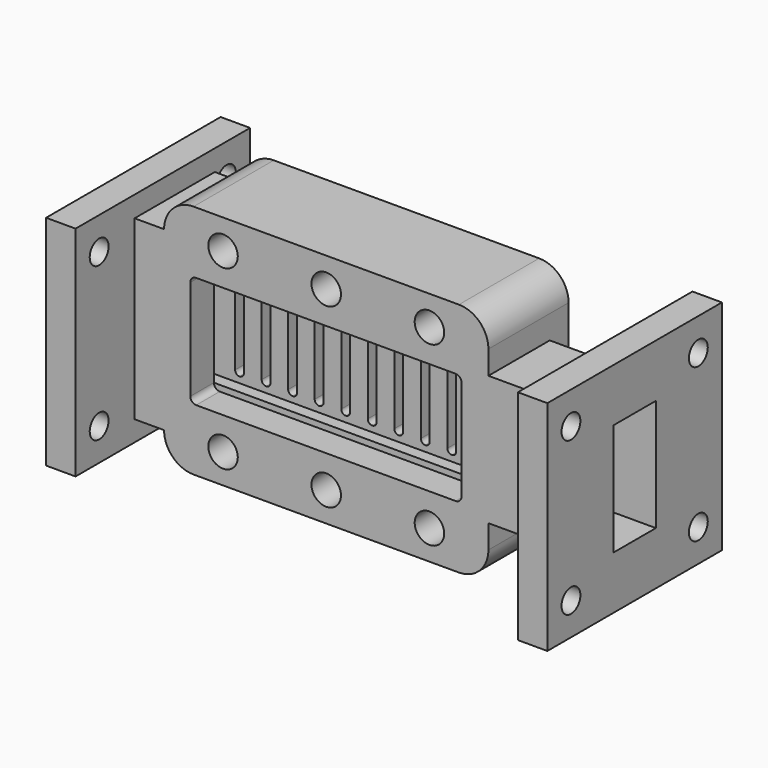
from build123d import *

# Parameters (mm, degrees)
F0_R      = 2.5
F1_DEPTH  = 17
F3_DEPTH  = 5
F4_W      = 46
F4_H      = 17
F5_DEPTH  = 2
F7_DEPTH  = 5
F9_W      = 13
F9_H      = 22
F10_DEPTH = 20
F11_W     = 37
F11_H     = 37
F11_R     = 2
F11_W_2   = 13
F11_H_2   = 22
F12_DEPTH = 5
F13_W     = 9
F13_H     = 19
F14_DEPTH = 10
F15_W     = 6
F15_H     = 18
F16_DEPTH = 10
F8_W      = 17
F8_H      = 30
F8_W_2    = 2
F8_H_2    = 17.5
F17_DEPTH = 5
F18_W     = 37
F18_H     = 37
F18_R     = 2
F19_DEPTH = 5
F20_DEPTH = 75.001


with BuildPart() as f1:
    # F0 (on Front) → F1 (new body)
    with BuildSketch(Plane.XZ):
        with BuildLine():
            Line((-22.4465147161, -20), (22.5534852839, -20))
            ThreePointArc((22.5534852839, -20), (26.0890191899, -18.5355339059), (27.5534852839, -15))
            Line((27.5534852839, -15), (27.5534852839, 15))
            ThreePointArc((27.5534852839, 15), (26.0890191899, 18.5355339059), (22.5534852839, 20))
            Line((22.5534852839, 20), (-22.4465147161, 20))
            ThreePointArc((-22.4465147161, 20), (-25.982048622, 18.5355339059), (-27.4465147161, 15))
            Line((-27.4465147161, 15), (-27.4465147161, -15))
            ThreePointArc((-27.4465147161, -15), (-25.982048622, -18.5355339059), (-22.4465147161, -20))
        make_face()
        with Locations((-17.4465147161, -15)):
            Circle(F0_R, mode=Mode.SUBTRACT)
        with Locations((0.0534852839, -15)):
            Circle(F0_R, mode=Mode.SUBTRACT)
        with Locations((17.5534852839, -15)):
            Circle(F0_R, mode=Mode.SUBTRACT)
        with Locations((-17.4465147161, 15)):
            Circle(F0_R, mode=Mode.SUBTRACT)
        with Locations((0.0534852839, 15)):
            Circle(F0_R, mode=Mode.SUBTRACT)
        with Locations((17.5534852839, 15)):
            Circle(F0_R, mode=Mode.SUBTRACT)
    extrude(amount=F1_DEPTH)

    # F2 (on face) → F3 (cut)
    with BuildSketch(Plane.XZ.offset(17)):
        with BuildLine():
            Line((22, 9.5), (-22, 9.5))
            ThreePointArc((-22, 9.5), (-22.7071067812, 9.2071067812), (-23, 8.5))
            Line((-23, 8.5), (-23, -8.5))
            ThreePointArc((-23, -8.5), (-22.7071067812, -9.2071067812), (-22, -9.5))
            Line((-22, -9.5), (22, -9.5))
            ThreePointArc((22, -9.5), (22.7071067812, -9.2071067812), (23, -8.5))
            Line((23, -8.5), (23, 8.5))
            ThreePointArc((23, 8.5), (22.7071067812, 9.2071067812), (22, 9.5))
        make_face()
    extrude(amount=-F3_DEPTH, mode=Mode.SUBTRACT)

    # F4 (on face) → F5 (cut)
    with BuildSketch(Plane.XZ.offset(12)):
        Rectangle(F4_W, F4_H)
    extrude(amount=-F5_DEPTH, mode=Mode.SUBTRACT)

    # F6 (on face) → F7 (cut)
    with BuildSketch(Plane.XZ.offset(10)):
        with BuildLine():
            ThreePointArc((-20.25, 7.5), (-20.7803300859, 7.2803300859), (-21, 6.75))
            Line((-21, 6.75), (-21, -6.75))
            ThreePointArc((-21, -6.75), (-20.7803300859, -7.2803300859), (-20.25, -7.5))
            ThreePointArc((-20.25, -7.5), (-19.7196699141, -7.2803300859), (-19.5, -6.75))
            Line((-19.5, -6.75), (-19.5, 6.75))
            ThreePointArc((-19.5, 6.75), (-19.7196699141, 7.2803300859), (-20.25, 7.5))
        make_face()
        with BuildLine():
            ThreePointArc((-15.75, 7.5), (-16.2803300859, 7.2803300859), (-16.5, 6.75))
            Line((-16.5, 6.75), (-16.5, -6.75))
            ThreePointArc((-16.5, -6.75), (-16.2803300859, -7.2803300859), (-15.75, -7.5))
            ThreePointArc((-15.75, -7.5), (-15.2196699141, -7.2803300859), (-15, -6.75))
            Line((-15, -6.75), (-15, 6.75))
            ThreePointArc((-15, 6.75), (-15.2196699141, 7.2803300859), (-15.75, 7.5))
        make_face()
        with BuildLine():
            ThreePointArc((-11.25, 7.5), (-11.7803300859, 7.2803300859), (-12, 6.75))
            Line((-12, 6.75), (-12, -6.75))
            ThreePointArc((-12, -6.75), (-11.7803300859, -7.2803300859), (-11.25, -7.5))
            ThreePointArc((-11.25, -7.5), (-10.7196699141, -7.2803300859), (-10.5, -6.75))
            Line((-10.5, -6.75), (-10.5, 6.75))
            ThreePointArc((-10.5, 6.75), (-10.7196699141, 7.2803300859), (-11.25, 7.5))
        make_face()
        with BuildLine():
            ThreePointArc((-6.75, 7.5), (-7.2803300859, 7.2803300859), (-7.5, 6.75))
            Line((-7.5, 6.75), (-7.5, -6.75))
            ThreePointArc((-7.5, -6.75), (-7.2803300859, -7.2803300859), (-6.75, -7.5))
            ThreePointArc((-6.75, -7.5), (-6.2196699141, -7.2803300859), (-6, -6.75))
            Line((-6, -6.75), (-6, 6.75))
            ThreePointArc((-6, 6.75), (-6.2196699141, 7.2803300859), (-6.75, 7.5))
        make_face()
        with BuildLine():
            ThreePointArc((-2.25, 7.5), (-2.7803300859, 7.2803300859), (-3, 6.75))
            Line((-3, 6.75), (-3, -6.75))
            ThreePointArc((-3, -6.75), (-2.7803300859, -7.2803300859), (-2.25, -7.5))
            ThreePointArc((-2.25, -7.5), (-1.7196699141, -7.2803300859), (-1.5, -6.75))
            Line((-1.5, -6.75), (-1.5, 6.75))
            ThreePointArc((-1.5, 6.75), (-1.7196699141, 7.2803300859), (-2.25, 7.5))
        make_face()
        with BuildLine():
            ThreePointArc((2.25, 7.5), (1.7196699141, 7.2803300859), (1.5, 6.75))
            Line((1.5, 6.75), (1.5, -6.75))
            ThreePointArc((1.5, -6.75), (1.7196699141, -7.2803300859), (2.25, -7.5))
            ThreePointArc((2.25, -7.5), (2.7803300859, -7.2803300859), (3, -6.75))
            Line((3, -6.75), (3, 6.75))
            ThreePointArc((3, 6.75), (2.7803300859, 7.2803300859), (2.25, 7.5))
        make_face()
        with BuildLine():
            ThreePointArc((6.75, 7.5), (6.2196699141, 7.2803300859), (6, 6.75))
            Line((6, 6.75), (6, -6.75))
            ThreePointArc((6, -6.75), (6.2196699141, -7.2803300859), (6.75, -7.5))
            ThreePointArc((6.75, -7.5), (7.2803300859, -7.2803300859), (7.5, -6.75))
            Line((7.5, -6.75), (7.5, 6.75))
            ThreePointArc((7.5, 6.75), (7.2803300859, 7.2803300859), (6.75, 7.5))
        make_face()
        with BuildLine():
            ThreePointArc((11.25, 7.5), (10.7196699141, 7.2803300859), (10.5, 6.75))
            Line((10.5, 6.75), (10.5, -6.75))
            ThreePointArc((10.5, -6.75), (10.7196699141, -7.2803300859), (11.25, -7.5))
            ThreePointArc((11.25, -7.5), (11.7803300859, -7.2803300859), (12, -6.75))
            Line((12, -6.75), (12, 6.75))
            ThreePointArc((12, 6.75), (11.7803300859, 7.2803300859), (11.25, 7.5))
        make_face()
        with BuildLine():
            ThreePointArc((15.75, 7.5), (15.2196699141, 7.2803300859), (15, 6.75))
            Line((15, 6.75), (15, -6.75))
            ThreePointArc((15, -6.75), (15.2196699141, -7.2803300859), (15.75, -7.5))
            ThreePointArc((15.75, -7.5), (16.2803300859, -7.2803300859), (16.5, -6.75))
            Line((16.5, -6.75), (16.5, 6.75))
            ThreePointArc((16.5, 6.75), (16.2803300859, 7.2803300859), (15.75, 7.5))
        make_face()
        with BuildLine():
            ThreePointArc((20.25, 7.5), (19.7196699141, 7.2803300859), (19.5, 6.75))
            Line((19.5, 6.75), (19.5, -6.75))
            ThreePointArc((19.5, -6.75), (19.7196699141, -7.2803300859), (20.25, -7.5))
            ThreePointArc((20.25, -7.5), (20.7803300859, -7.2803300859), (21, -6.75))
            Line((21, -6.75), (21, 6.75))
            ThreePointArc((21, 6.75), (20.7803300859, 7.2803300859), (20.25, 7.5))
        make_face()
    extrude(amount=-F7_DEPTH, mode=Mode.SUBTRACT)

    # F9 (on face) → F10 (join)
    with BuildSketch(Plane.YZ.offset(27.5534852839)):
        with Locations((-10.5, 0)):
            Rectangle(F9_W, F9_H)
    extrude(amount=F10_DEPTH)

    # F11 (on face) → F12 (join)
    with BuildSketch(Plane.YZ.offset(47.5534852839)):
        with Locations((-11, 0)):
            Rectangle(F11_W, F11_H)
        with Locations((-24.5, -13)):
            Circle(F11_R, mode=Mode.SUBTRACT)
        with Locations((2.5, -13)):
            Circle(F11_R, mode=Mode.SUBTRACT)
        with Locations((-24.5, 13)):
            Circle(F11_R, mode=Mode.SUBTRACT)
        with Locations((-10.5, 0)):
            Rectangle(F11_W_2, F11_H_2, mode=Mode.SUBTRACT)
        with Locations((2.5, 13)):
            Circle(F11_R, mode=Mode.SUBTRACT)
    extrude(amount=-F12_DEPTH)

    # F13 (on face) → F14 (cut)
    with BuildSketch(Plane.YZ.offset(47.5534852839)):
        with Locations((-11, 0)):
            Rectangle(F13_W, F13_H)
    extrude(amount=-F14_DEPTH, mode=Mode.SUBTRACT)

    # F15 (on face) → F16 (cut)
    with BuildSketch(Plane.YZ.offset(37.5534852839)):
        with Locations((-11, 0)):
            Rectangle(F15_W, F15_H)
    extrude(amount=-F16_DEPTH, mode=Mode.SUBTRACT)

    # F8 (on face) → F17 (join)
    with BuildSketch(Plane(origin=(-27.4465147161, 0, 0), x_dir=(0, -1, 0), z_dir=(-1, 0, 0))):
        with Locations((8.5, 0)):
            Rectangle(F8_W, F8_H)
        with Locations((11, 0.25)):
            Rectangle(F8_W_2, F8_H_2, mode=Mode.SUBTRACT)
    extrude(amount=F17_DEPTH)

    # F18 (on face) → F19 (join)
    with BuildSketch(Plane(origin=(-32.4465147161, 0, 0), x_dir=(0, -1, 0), z_dir=(-1, 0, 0))):
        with Locations((11.0123828505, 0.0414154201)):
            Rectangle(F18_W, F18_H)
        with Locations((-2.4876171495, -12.9585845799)):
            Circle(F18_R, mode=Mode.SUBTRACT)
        with Locations((24.5123828505, -12.9585845799)):
            Circle(F18_R, mode=Mode.SUBTRACT)
        with Locations((-2.4876171495, 13.0414154201)):
            Circle(F18_R, mode=Mode.SUBTRACT)
        with Locations((24.5123828505, 13.0414154201)):
            Circle(F18_R, mode=Mode.SUBTRACT)
    extrude(amount=F19_DEPTH)

    # F8 (on face) → F20 (cut, through all)
    with BuildSketch(Plane(origin=(-27.4465147161, 0, 0), x_dir=(0, -1, 0), z_dir=(-1, 0, 0))):
        with Locations((11, 0.25)):
            Rectangle(F8_W_2, F8_H_2)
    extrude(amount=-F20_DEPTH, mode=Mode.SUBTRACT)


solid = f1.part
